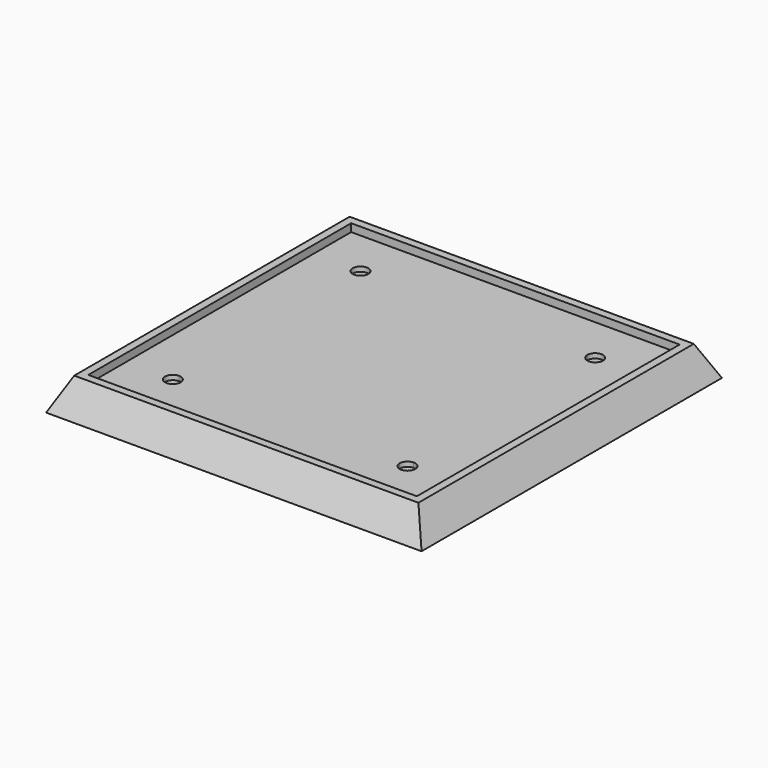
from build123d import *

# Parameters (mm, degrees)
F0_W     = 240
F0_H     = 240
F2_W     = 220
F2_H     = 220
F4_W     = 210
F4_H     = 210
F5_DEPTH = 5
F7_DEPTH = 3


with BuildPart() as f3:
    # F0 (on Top) → F3 section 0
    with BuildSketch(Plane.XY):
        Rectangle(F0_W, F0_H)
    # F2 (on offset) → F3 section 1
    with BuildSketch(Plane.XY.offset(20)):
        Rectangle(F2_W, F2_H)
    loft()

    # F4 (on face) → F5 (cut)
    with BuildSketch(Plane.XY.offset(20)):
        Rectangle(F4_W, F4_H)
    extrude(amount=-F5_DEPTH, mode=Mode.SUBTRACT)

    # F6 (on face) → F7 (cut)
    with BuildSketch(Plane.XY.offset(15)):
        with BuildLine():
            ThreePointArc((-70, 75), (-78.5355339059, 78.5355339059), (-75, 70))
            Line((-75, 70), (-75, 75))
            Line((-75, 75), (-70, 75))
        make_face()
        with BuildLine():
            Line((-75, 75), (-75, 70))
            ThreePointArc((-75, 70), (-71.4644660941, 71.4644660941), (-70, 75))
            Line((-70, 75), (-75, 75))
        make_face()
        with BuildLine():
            ThreePointArc((70, 75), (71.4644660941, 71.4644660941), (75, 70))
            Line((75, 70), (75, 75))
            Line((75, 75), (70, 75))
        make_face()
        with BuildLine():
            Line((75, 75), (75, 70))
            ThreePointArc((75, 70), (78.5355339059, 71.4644660941), (80, 75))
            ThreePointArc((80, 75), (75, 80), (70, 75))
            Line((70, 75), (75, 75))
        make_face()
        with BuildLine():
            ThreePointArc((75, -70), (71.4644660941, -71.4644660941), (70, -75))
            Line((70, -75), (75, -75))
            Line((75, -75), (75, -70))
        make_face()
        with BuildLine():
            Line((75, -75), (70, -75))
            ThreePointArc((70, -75), (75, -80), (80, -75))
            ThreePointArc((80, -75), (78.5355339059, -71.4644660941), (75, -70))
            Line((75, -70), (75, -75))
        make_face()
        with BuildLine():
            Line((-75, -75), (-70, -75))
            ThreePointArc((-70, -75), (-71.4644660941, -71.4644660941), (-75, -70))
            Line((-75, -70), (-75, -75))
        make_face()
        with BuildLine():
            ThreePointArc((-75, -70), (-78.5355339059, -78.5355339059), (-70, -75))
            Line((-70, -75), (-75, -75))
            Line((-75, -75), (-75, -70))
        make_face()
    extrude(amount=-F7_DEPTH, mode=Mode.SUBTRACT)


solid = f3.part
